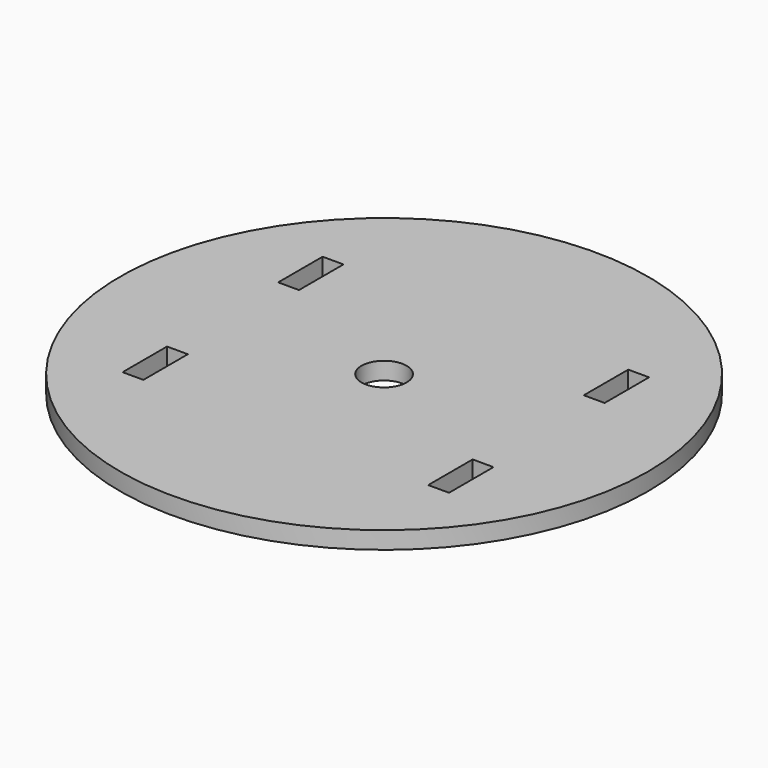
from build123d import *

# Parameters (mm, degrees)
F0_R     = 120.65
F0_W     = 9.525
F0_H     = 25.4
F0_R_2   = 10.31875
F1_DEPTH = 7.9375


with BuildPart() as f1:
    # F0 (on Top) → F1 (new body)
    with BuildSketch(Plane.XY):
        Circle(F0_R)
        with Locations((-69.05625, -44.45)):
            Rectangle(F0_W, F0_H, mode=Mode.SUBTRACT)
        with Locations((70.64375, -44.45)):
            Rectangle(F0_W, F0_H, mode=Mode.SUBTRACT)
        with Locations((-69.05625, 44.45)):
            Rectangle(F0_W, F0_H, mode=Mode.SUBTRACT)
        Circle(F0_R_2, mode=Mode.SUBTRACT)
        with Locations((70.64375, 44.45)):
            Rectangle(F0_W, F0_H, mode=Mode.SUBTRACT)
    extrude(amount=F1_DEPTH)


solid = f1.part
